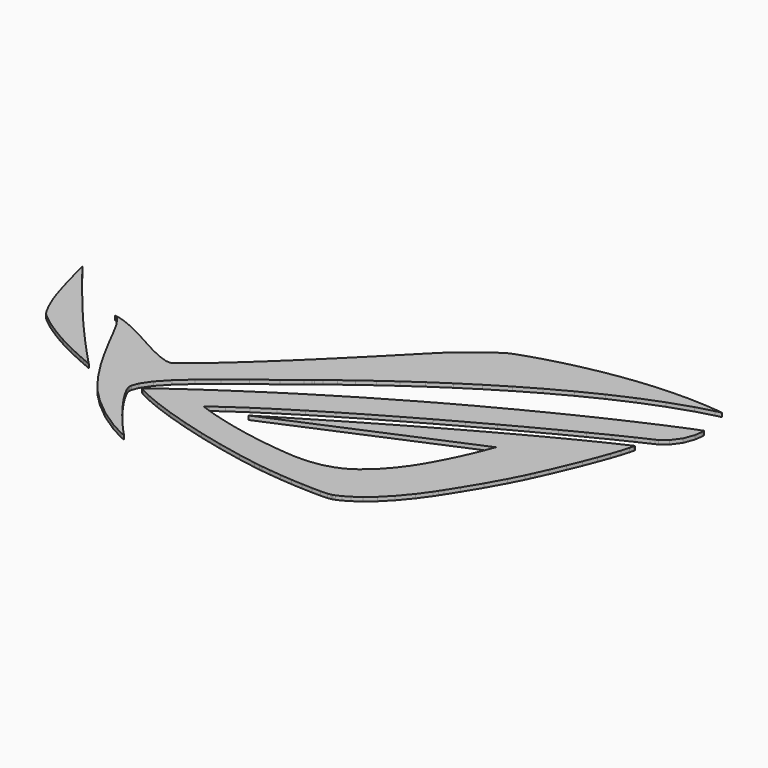
from build123d import *

# Parameters (mm, degrees)
F1_DEPTH = 1


with BuildPart() as f1:
    # F0 (on Top) → F1 (new body)
    with BuildSketch(Plane.XY):
        Polygon((-54.30995, -15.926587), (-53.462479, -16.388232), (-52.999462, -16.640404), (-51.592455, -17.373524), (-49.727993, -18.300929), (-47.946183, -19.14845), (-46.3201, -19.892594), (-44.925539, -20.509967), (-43.836971, -20.979867), (-43.129835, -21.278875), (-42.876343, -21.3836), (-43.146345, -21.102472), (-43.913933, -20.293609), (-45.12122, -19.007861), (-46.70872, -17.294987), (-48.617276, -15.204567), (-50.787706, -12.788773), (-53.159304, -10.094849), (-55.049979, -7.907655), (-55.672838, -7.174611), (-56.304002, -6.431915), (-58.179487, -4.191127), (-60.67237, -1.167765), (-63.050877, 1.762125), (-65.218513, 4.464177), (-67.076117, 6.799961), (-68.524425, 8.636889), (-69.466993, 9.838563), (-69.801867, 10.268585), (-69.728842, 9.956927), (-69.516625, 9.087485), (-69.185892, 7.759319), (-68.750434, 6.069711), (-68.229531, 4.119499), (-67.639717, 2.005711), (-66.996183, -0.173101), (-66.493187, -1.783715), (-66.316809, -2.318639), (-66.104567, -2.962021), (-65.390776, -4.867783), (-64.474369, -6.985889), (-63.646177, -8.610473), (-63.167997, -9.426321), (-62.986107, -9.682607), (-62.76147, -9.999599), (-61.776178, -10.906379), (-59.641588, -12.555855), (-56.797321, -14.443837), align=None)
        Polygon((-5.411851, -0.306705), (-4.172839, 0.671957), (-3.749929, 1.007999), (-2.471039, 2.008505), (-0.180467, 3.778123), (2.654173, 5.919597), (5.984621, 8.372475), (9.764649, 11.078845), (13.948283, 13.976985), (18.487771, 17.007205), (23.337139, 20.109307), (28.449651, 23.223601), (33.776793, 26.289635), (39.275385, 29.248227), (44.897929, 32.038925), (50.595911, 34.600769), (56.323357, 36.875847), (62.035055, 38.802183), (66.260345, 39.991411), (67.683761, 40.319579), (66.579877, 40.457247), (63.254509, 40.739695), (58.855737, 40.913177), (54.520465, 40.870505), (50.281967, 40.640635), (46.172501, 40.251761), (42.225849, 39.734871), (38.474777, 39.116127), (34.952305, 38.425755), (31.690437, 37.694235), (28.724987, 36.948745), (26.087705, 36.218495), (23.810849, 35.533457), (21.927439, 34.920301), (20.472273, 34.412047), (19.475577, 34.032825), (19.093815, 33.878647), (18.973927, 33.815147), (18.665317, 33.655127), (17.778095, 33.102677), (16.339439, 32.109029), (14.755749, 30.925389), (13.129895, 29.646499), (11.560429, 28.363545), (10.147681, 27.169999), (8.992743, 26.158825), (8.390509, 25.610185), (8.196707, 25.419939), (7.969123, 25.200991), (7.300849, 24.528399), (5.882767, 23.091267), (4.005961, 21.185251), (1.740281, 18.889599), (-0.850265, 16.278225), (-3.695827, 13.428345), (-6.733413, 10.417429), (-9.100693, 8.094091), (-9.893173, 7.322185), (-10.624693, 6.612763), (-12.828143, 4.491863), (-15.755239, 1.709547), (-18.624423, -0.966851), (-21.378799, -3.484245), (-23.964011, -5.787009), (-26.329005, -7.819517), (-28.416377, -9.529699), (-29.724477, -10.541127), (-30.172279, -10.860913), (-30.497399, -11.017885), (-31.747333, -10.932541), (-34.009965, -10.177399), (-36.775771, -8.840597), (-39.858569, -7.171817), (-43.072177, -5.416423), (-46.227771, -3.821811), (-49.14232, -2.635377), (-51.00127, -2.139315), (-51.626922, -2.106295), (-51.247954, -2.244217), (-50.283339, -3.134233), (-48.892892, -5.197221), (-47.253017, -8.271637), (-45.691704, -11.325225), (-45.161149, -12.338177), (-44.670574, -13.276707), (-43.160315, -16.078175), (-40.780335, -20.21365), (-38.057455, -24.434622), (-35.830383, -27.471776), (-35.024441, -28.432277), (-34.172779, -29.447896), (-31.349061, -32.272884), (-27.133677, -35.778592), (-22.685121, -38.730352), (-19.437223, -40.452904), (-18.307177, -40.913177), (-18.771743, -40.448763), (-20.113879, -39.007339), (-22.103715, -36.726698), (-24.146129, -34.2297), (-26.109549, -31.670676), (-27.859863, -29.210864), (-29.264229, -27.006017), (-30.191583, -25.213183), (-30.519243, -24.294033), (-30.508321, -23.992256), (-30.489017, -23.436885), (-29.871543, -21.791524), (-28.200223, -19.316548), (-25.633045, -16.577005), (-22.306407, -13.586587), (-18.358485, -10.353675), (-13.927963, -6.892163), (-9.154541, -3.212973), align=None)
        Polygon((-1.525651, -4.898009), (-3.337941, -6.052947), (-4.517263, -6.802501), (-8.041005, -9.080373), (-12.432665, -11.972925), (-16.440023, -14.668373), (-19.987133, -17.106189), (-22.998049, -19.22559), (-25.398857, -20.966074), (-27.114373, -22.265564), (-27.844623, -22.849865), (-28.067889, -23.066223), (-27.432635, -23.460304), (-25.412573, -24.464924), (-21.818473, -25.976631), (-17.444593, -27.543455), (-12.450699, -29.106139), (-6.996557, -30.609591), (-1.241679, -31.9945), (4.657471, -33.204429), (9.063355, -33.967852), (10.539095, -34.181466), (11.255883, -34.284793), (13.412343, -34.550756), (16.380587, -34.851188), (19.326733, -35.082709), (22.131401, -35.241179), (24.675211, -35.323831), (26.841323, -35.33074), (28.511627, -35.257689), (29.312235, -35.175038), (29.567251, -35.104756), (29.747845, -35.053753), (30.279467, -34.853931), (31.446851, -34.309609), (33.011999, -33.397342), (34.922079, -32.039992), (37.122989, -30.163084), (39.559357, -27.690902), (42.178859, -24.54623), (44.276137, -21.650935), (44.925361, -20.65462), (45.549439, -19.694169), (47.386621, -16.787876), (49.898681, -12.615291), (52.341907, -8.230235), (54.061487, -4.863465), (54.594887, -3.724021), (55.020845, -2.810383), (56.263921, -0.052959), (57.809765, 3.517519), (59.207273, 6.911467), (60.432315, 10.050907), (61.461777, 12.857861), (62.272037, 15.257145), (62.839727, 17.170019), (63.087885, 18.177129), (63.140209, 18.517489), (61.831093, 17.919573), (57.932701, 16.061817), (52.486687, 13.362305), (46.880907, 10.475341), (41.193593, 7.454519), (35.508057, 4.356735), (29.899229, 1.238123), (24.447627, -1.847215), (19.234531, -4.843145), (14.337157, -7.694295), (9.835007, -10.345547), (5.808345, -12.742037), (2.335657, -14.825599), (-0.502793, -16.54396), (-2.629535, -17.839284), (-3.963289, -18.657875), (-4.425061, -18.943117), (42.104437, 0.924179), (41.965245, 0.543941), (41.562909, -0.522859), (40.913939, -2.156079), (40.036115, -4.238117), (38.944677, -6.652387), (37.658929, -9.280271), (36.195381, -12.003405), (34.997771, -14.041501), (34.573337, -14.705711), (33.975421, -15.638577), (31.989649, -18.314721), (29.400373, -21.174177), (26.862151, -23.330814), (25.069165, -24.513134), (24.435181, -24.835612), (23.972139, -25.069851), (22.535007, -25.677597), (20.075271, -26.407948), (16.915511, -26.857173), (13.909929, -26.921943), (12.913487, -26.861338), (11.725783, -26.788262), (8.169021, -26.446531), (3.676523, -25.841554), (-0.490601, -25.104319), (-4.254119, -24.291265), (-7.539355, -23.463098), (-10.270617, -22.677603), (-12.370689, -21.992717), (-13.422249, -21.611006), (-13.763879, -21.467674), (-12.916535, -20.820024), (-10.320401, -18.948629), (-6.323711, -16.217367), (-1.850771, -13.310997), (3.020695, -10.267061), (8.213217, -7.123557), (13.650849, -3.919855), (19.257899, -0.693801), (24.954865, 2.517013), (30.665293, 5.674233), (36.313999, 8.738997), (41.821989, 11.673967), (47.112301, 14.441297), (52.110259, 17.001617), (56.736361, 19.318097), (60.914661, 21.352129), (63.651511, 22.644735), (64.569467, 23.063835), (65.211579, 23.358729), (66.927095, 24.710517), (68.569459, 26.959433), (69.516371, 29.512895), (69.801867, 31.433897), (69.786627, 32.070421), (69.541009, 31.991935), (68.817871, 31.721933), (67.308857, 31.127827), (65.305051, 30.299533), (62.849633, 29.252545), (59.985783, 27.998547), (56.759983, 26.549985), (53.215667, 24.921083), (50.349277, 23.576407), (49.397031, 23.121747), (47.680245, 22.302851), (42.555033, 19.789267), (35.248723, 16.085185), (27.633549, 12.065635), (21.796121, 8.876919), (19.864451, 7.791069), (17.772507, 6.616573), (7.846187, 0.838835), align=None)
    extrude(amount=F1_DEPTH)


solid = f1.part
